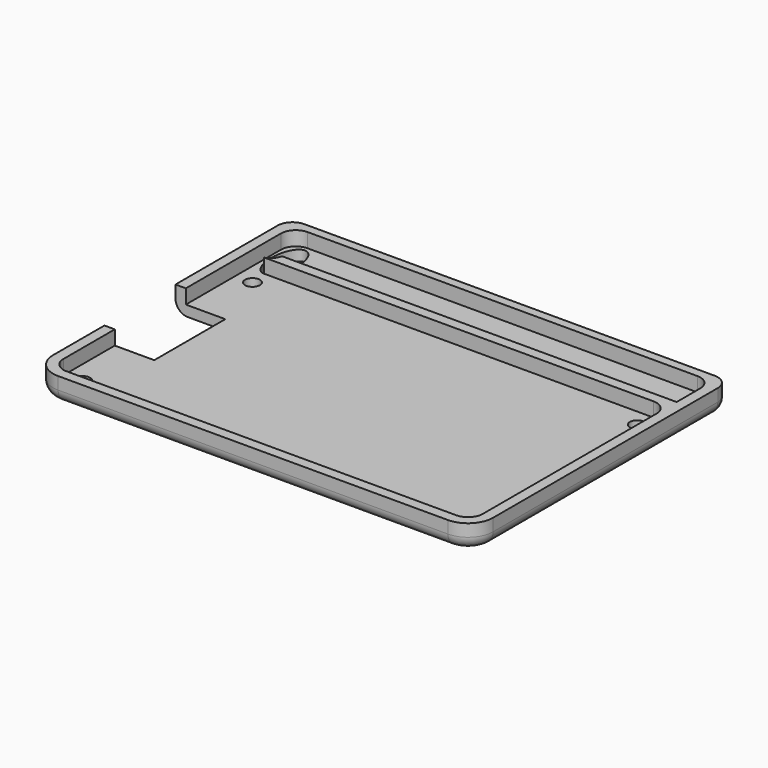
from build123d import *

# Parameters (mm, degrees)
F0_R     = 1.5
F1_DEPTH = 2.1
F2_DEPTH = 5
F3_R     = 2.5


with BuildPart() as f1:
    # F0 (on Top) → F1 (new body)
    with BuildSketch(Plane.XY):
        with BuildLine():
            Line((39.5, -25), (34.5, -25))
            Line((34.5, -25), (-34.5, -25))
            Line((-34.5, -25), (-39.5, -25))
            ThreePointArc((-39.5, -25), (-41.62132, -24.12132), (-42.5, -22))
            Line((-42.5, -22), (-42.5, -9))
            Line((-42.5, -9), (-44.6, -9))
            Line((-44.6, -9), (-44.6, -22))
            ThreePointArc((-44.6, -22), (-43.106245, -25.606245), (-39.5, -27.1))
            Line((-39.5, -27.1), (39.5, -27.1))
            ThreePointArc((39.5, -27.1), (43.106245, -25.606245), (44.6, -22))
            Line((44.6, -22), (44.6, 22))
            Line((44.6, 22), (44.6, 34.9))
            ThreePointArc((44.6, 34.9), (43.72132, 37.02132), (41.6, 37.9))
            Line((41.6, 37.9), (0, 37.9))
            Line((0, 37.9), (-41.6, 37.9))
            ThreePointArc((-41.6, 37.9), (-43.72132, 37.02132), (-44.6, 34.9))
            Line((-44.6, 34.9), (-44.6, 22))
            Line((-44.6, 22), (-44.6, 9))
            Line((-44.6, 9), (-42.5, 9))
            Line((-42.5, 9), (-42.5, 22))
            Line((-42.5, 22), (-42.5, 27.1))
            Line((-42.5, 27.1), (-42.5, 33.1))
            ThreePointArc((-42.5, 33.1), (-41.62132, 35.22132), (-39.5, 36.1))
            Line((-39.5, 36.1), (0, 36.1))
            Line((0, 36.1), (39.5, 36.1))
            ThreePointArc((39.5, 36.1), (41.62132, 35.22132), (42.5, 33.1))
            Line((42.5, 33.1), (42.5, 27.1))
            Line((42.5, 27.1), (42.5, 22))
            Line((42.5, 22), (42.5, -22))
            ThreePointArc((42.5, -22), (41.62132, -24.12132), (39.5, -25))
        make_face()
        with BuildLine():
            Line((-34.5, 9), (-34.5, 25))
            Line((-34.5, 25), (-39.461525, 25))
            add(Edge.make_bspline(
                [(-39.5, 25), (-39.480766, 24.999701), (-39.461525, 25)],
                knots=[0, 0, 0, 0.015266, 0.015266, 0.015266], degree=2, weights=[1, 0.999971, 1]))
            ThreePointArc((-39.5, 25), (-41.62132, 24.12132), (-42.5, 22))
            Line((-42.5, 22), (-42.5, 9))
            Line((-42.5, 9), (-34.5, 9))
        make_face()
        with Locations((-39, 21.5)):
            Circle(F0_R, mode=Mode.SUBTRACT)
        with BuildLine():
            Line((-34.5, -25), (-34.5, -9))
            Line((-34.5, -9), (-42.5, -9))
            Line((-42.5, -9), (-42.5, -22))
            ThreePointArc((-42.5, -22), (-41.62132, -24.12132), (-39.5, -25))
            Line((-39.5, -25), (-34.5, -25))
        make_face()
        with Locations((-39, -21.5)):
            Circle(F0_R, mode=Mode.SUBTRACT)
        Polygon((34.5, 25), (-34.5, 25), (-34.5, 9), (-34.5, -9), (-34.5, -25), (34.5, -25), align=None)
        with BuildLine():
            Line((39.5, 25), (34.5, 25))
            Line((34.5, 25), (34.5, -25))
            Line((34.5, -25), (39.5, -25))
            ThreePointArc((39.5, -25), (41.62132, -24.12132), (42.5, -22))
            Line((42.5, -22), (42.5, 22))
            ThreePointArc((42.5, 22), (41.62132, 24.12132), (39.5, 25))
        make_face()
        with Locations((39, -21.5)):
            Circle(F0_R, mode=Mode.SUBTRACT)
        with Locations((39, 21.5)):
            Circle(F0_R, mode=Mode.SUBTRACT)
        with BuildLine():
            ThreePointArc((-42.5, 22), (-41.62132, 24.12132), (-39.5, 25))
            add(Edge.make_bspline(
                [(-41.488852, 27.1), (-40.765333, 25.019686), (-39.5, 25)],
                knots=[5.35244, 5.35244, 5.35244, 6.283185, 6.283185, 6.283185], degree=2, weights=[1, 0.893654, 1]))
            Line((-41.488852, 27.1), (-42.5, 27.1))
            Line((-42.5, 27.1), (-42.5, 22))
        make_face()
        with BuildLine():
            add(Edge.make_bspline(
                [(-37.42306, 27.1), (-34.387845, 35.271957), (-39.359425, 35.271957), (-44.331004, 35.271957), (-41.488852, 27.1)],
                knots=[0.946012, 0.946012, 0.946012, 3.149226, 3.149226, 5.35244, 5.35244, 5.35244], degree=2, weights=[1, 0.452163, 1, 0.452163, 1]))
            Line((-37.42306, 27.1), (39.5, 27.1))
            Line((39.5, 27.1), (42.5, 27.1))
            Line((42.5, 27.1), (42.5, 33.1))
            ThreePointArc((42.5, 33.1), (41.62132, 35.22132), (39.5, 36.1))
            Line((39.5, 36.1), (0, 36.1))
            Line((0, 36.1), (-39.5, 36.1))
            ThreePointArc((-39.5, 36.1), (-41.62132, 35.22132), (-42.5, 33.1))
            Line((-42.5, 33.1), (-42.5, 27.1))
            Line((-42.5, 27.1), (-41.488852, 27.1))
        make_face()
        with BuildLine():
            Line((-39.461525, 25), (-34.5, 25))
            Line((-34.5, 25), (34.5, 25))
            Line((34.5, 25), (39.5, 25))
            ThreePointArc((39.5, 25), (41.62132, 24.12132), (42.5, 22))
            Line((42.5, 22), (42.5, 27.1))
            Line((42.5, 27.1), (39.5, 27.1))
            Line((39.5, 27.1), (-37.42306, 27.1))
            add(Edge.make_bspline(
                [(-39.461525, 25), (-38.195727, 25.019686), (-37.42306, 27.1)],
                knots=[0.015266, 0.015266, 0.015266, 0.946012, 0.946012, 0.946012], degree=2, weights=[1, 0.893654, 1]))
        make_face()
    extrude(amount=F1_DEPTH)

    # F0 (on Top) → F2 (join)
    with BuildSketch(Plane.XY):
        with BuildLine():
            Line((39.5, -25), (34.5, -25))
            Line((34.5, -25), (-34.5, -25))
            Line((-34.5, -25), (-39.5, -25))
            ThreePointArc((-39.5, -25), (-41.62132, -24.12132), (-42.5, -22))
            Line((-42.5, -22), (-42.5, -9))
            Line((-42.5, -9), (-44.6, -9))
            Line((-44.6, -9), (-44.6, -22))
            ThreePointArc((-44.6, -22), (-43.106245, -25.606245), (-39.5, -27.1))
            Line((-39.5, -27.1), (39.5, -27.1))
            ThreePointArc((39.5, -27.1), (43.106245, -25.606245), (44.6, -22))
            Line((44.6, -22), (44.6, 22))
            Line((44.6, 22), (44.6, 34.9))
            ThreePointArc((44.6, 34.9), (43.72132, 37.02132), (41.6, 37.9))
            Line((41.6, 37.9), (0, 37.9))
            Line((0, 37.9), (-41.6, 37.9))
            ThreePointArc((-41.6, 37.9), (-43.72132, 37.02132), (-44.6, 34.9))
            Line((-44.6, 34.9), (-44.6, 22))
            Line((-44.6, 22), (-44.6, 9))
            Line((-44.6, 9), (-42.5, 9))
            Line((-42.5, 9), (-42.5, 22))
            Line((-42.5, 22), (-42.5, 27.1))
            Line((-42.5, 27.1), (-42.5, 33.1))
            ThreePointArc((-42.5, 33.1), (-41.62132, 35.22132), (-39.5, 36.1))
            Line((-39.5, 36.1), (0, 36.1))
            Line((0, 36.1), (39.5, 36.1))
            ThreePointArc((39.5, 36.1), (41.62132, 35.22132), (42.5, 33.1))
            Line((42.5, 33.1), (42.5, 27.1))
            Line((42.5, 27.1), (42.5, 22))
            Line((42.5, 22), (42.5, -22))
            ThreePointArc((42.5, -22), (41.62132, -24.12132), (39.5, -25))
        make_face()
        with BuildLine():
            Line((-39.461525, 25), (-34.5, 25))
            Line((-34.5, 25), (34.5, 25))
            Line((34.5, 25), (39.5, 25))
            ThreePointArc((39.5, 25), (41.62132, 24.12132), (42.5, 22))
            Line((42.5, 22), (42.5, 27.1))
            Line((42.5, 27.1), (39.5, 27.1))
            Line((39.5, 27.1), (-37.42306, 27.1))
            add(Edge.make_bspline(
                [(-39.461525, 25), (-38.195727, 25.019686), (-37.42306, 27.1)],
                knots=[0.015266, 0.015266, 0.015266, 0.946012, 0.946012, 0.946012], degree=2, weights=[1, 0.893654, 1]))
        make_face()
    extrude(amount=F2_DEPTH)

    # F3
    f3_edges = [f1.edges().sort_by_distance(p)[0] for p in [
        (44.6, 6.45, 0),
    ]]
    fillet(f3_edges, radius=F3_R)


solid = f1.part
